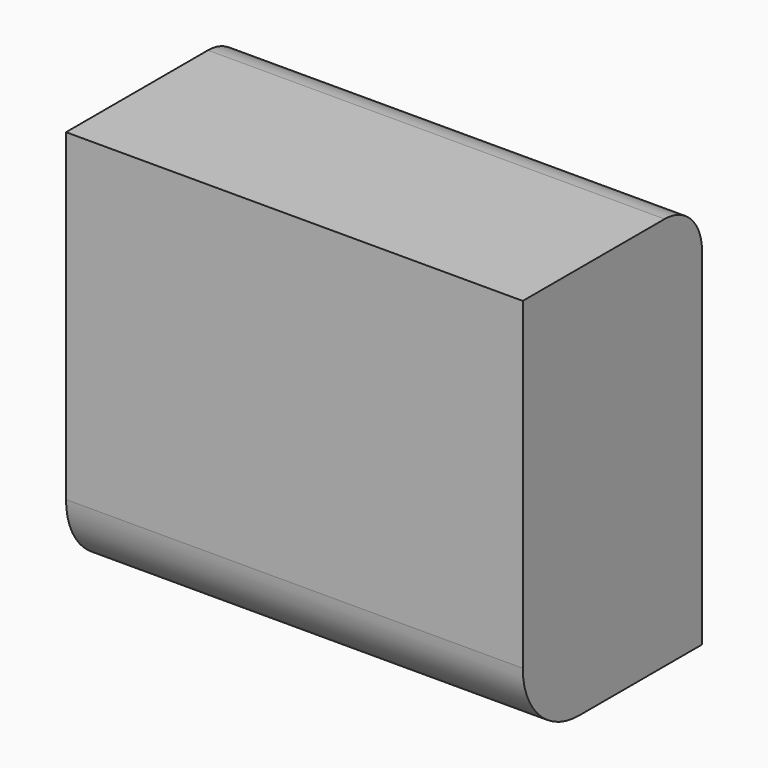
from build123d import *

# Parameters (mm, degrees)
F1_DEPTH = 146.001203


with BuildPart() as f1:
    # F0 (on Right) → F1 (new body)
    with BuildSketch(Plane.YZ):
        with BuildLine():
            Line((38.369116, 72.40589), (-18.330798, 72.40589))
            Line((-18.330798, 72.40589), (-18.330798, -30.96252))
            ThreePointArc((-18.330798, -30.96252), (-11.754066, -46.840154), (4.123567, -53.416885))
            Line((4.123567, -53.416885), (53.274147, -53.416885))
            Line((53.274147, -53.416885), (53.274147, 57.500858))
            ThreePointArc((53.274147, 57.500858), (48.908565, 68.040307), (38.369116, 72.40589))
        make_face()
    extrude(amount=F1_DEPTH)


solid = f1.part
